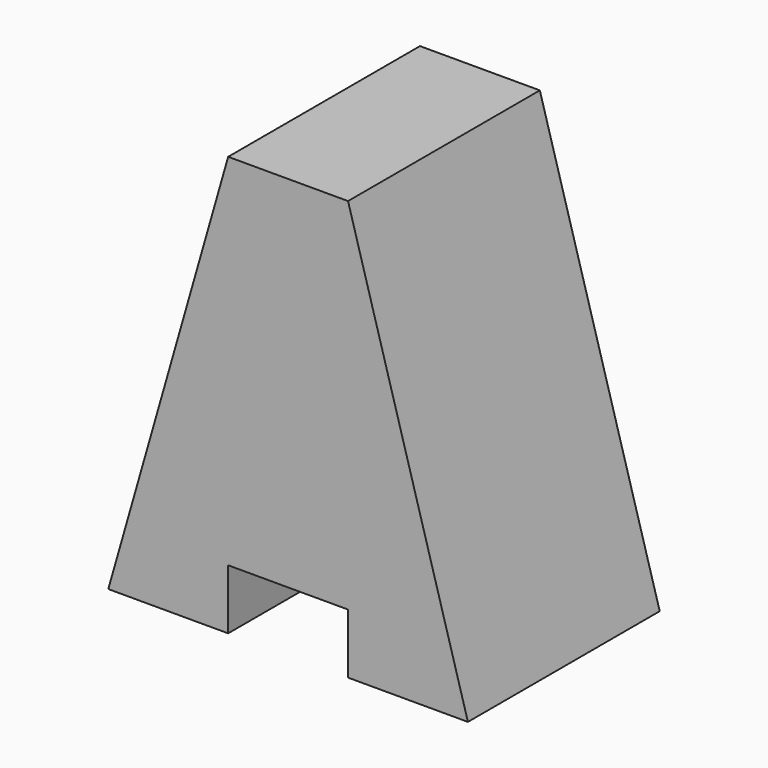
from build123d import *

# Parameters (mm, degrees)
F0_W     = 38.1
F0_H     = 44.45
F1_DEPTH = 25.4
F3_DEPTH = 25.401
F5_DEPTH = 25.401
F6_W     = 12.7
F6_H     = 6.35
F7_DEPTH = 25.401


with BuildPart() as f1:
    # F0 (on Front) → F1 (new body)
    with BuildSketch(Plane.XZ):
        with Locations((-1.822717, 23.700186)):
            Rectangle(F0_W, F0_H)
    extrude(amount=F1_DEPTH)

    # F2 (on face) → F3 (cut, through all)
    with BuildSketch(Plane.XZ.offset(25.4)):
        Polygon((17.227283, 45.925186), (4.527283, 45.925186), (17.227283, 1.475186), align=None)
    extrude(amount=-F3_DEPTH, mode=Mode.SUBTRACT)

    # F4 (on face) → F5 (cut, through all)
    with BuildSketch(Plane.XZ.offset(25.4)):
        Polygon((-20.872717, 1.475186), (-8.172717, 45.925186), (-20.872717, 45.925186), align=None)
    extrude(amount=-F5_DEPTH, mode=Mode.SUBTRACT)

    # F6 (on face) → F7 (cut, through all)
    with BuildSketch(Plane.XZ.offset(25.4)):
        with Locations((-1.822717, 4.650186)):
            Rectangle(F6_W, F6_H)
    extrude(amount=-F7_DEPTH, mode=Mode.SUBTRACT)


solid = f1.part
